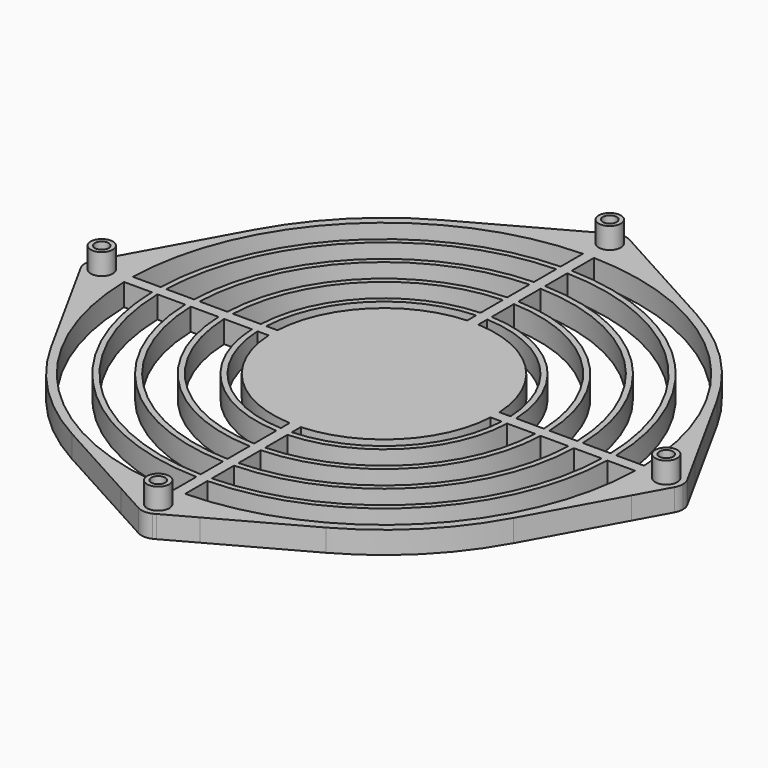
from build123d import *

# Parameters (mm, degrees)
F0_W     = 2
F0_H     = 2
F1_DEPTH = 4
F2_R     = 2
F3_DEPTH = 3.8
F5_D     = 2.5


with BuildPart() as f1:
    # F0 (on Top) → F1 (new body)
    with BuildSketch(Plane.XY):
        with BuildLine():
            Line((-27.9821371593, 1), (-28.9827534924, 1))
            ThreePointArc((-28.9827534924, 1), (-29, 0), (-28.9827534924, -1))
            Line((-28.9827534924, -1), (-27.9821371593, -1))
            ThreePointArc((-27.9821371593, -1), (-28, 0), (-27.9821371593, 1))
        make_face()
        with BuildLine():
            Line((45.9891291503, 1), (47.4894725176, 1))
            ThreePointArc((47.4894725176, 1), (45.876684121, 12.3117770471), (41.6092519685, 22.9111359522))
            ThreePointArc((41.6092519685, 22.9111359522), (33.5875721064, 33.5875721064), (22.9111359522, 41.6092519685))
            ThreePointArc((22.9111359522, 41.6092519685), (12.3117770471, 45.876684121), (1, 47.4894725176))
            Line((1, 47.4894725176), (1, 45.9891291503))
            ThreePointArc((1, 45.9891291503), (32.5269119346, 32.5269119346), (45.9891291503, 1))
        make_face()
        with BuildLine():
            Line((1, 19.9749843554), (1, 21.9772609758))
            ThreePointArc((1, 21.9772609758), (0, 22), (-1, 21.9772609758))
            Line((-1, 21.9772609758), (-1, 19.9749843554))
            ThreePointArc((-1, 19.9749843554), (0, 20), (1, 19.9749843554))
        make_face()
        with BuildLine():
            Line((-28.9827534924, 1), (-33.9852909359, 1))
            ThreePointArc((-33.9852909359, 1), (-34, 0), (-33.9852909359, -1))
            Line((-33.9852909359, -1), (-28.9827534924, -1))
            ThreePointArc((-28.9827534924, -1), (-29, 0), (-28.9827534924, 1))
        make_face()
        with BuildLine():
            Line((7.1083390687, -50.3002138731), (22.8899609216, -41.6209044713))
            ThreePointArc((22.8899609216, -41.6209044713), (12.3001049157, -45.8798149415), (1, -47.4894725176))
            ThreePointArc((1, -47.4894725176), (0, -47.5), (-1, -47.4894725176))
            ThreePointArc((-1, -47.4894725176), (-12.3117770471, -45.876684121), (-22.9111359522, -41.6092519685))
            Line((-22.9111359522, -41.6092519685), (-7.1339324414, -50.2965904204))
            ThreePointArc((-7.1339324414, -50.2965904204), (-5.0705561183, -50.5463100597), (-2.9986918997, -50.7114173228))
            ThreePointArc((-2.9986918997, -50.7114173228), (0, -47.8), (2.9986918997, -50.7114173228))
            ThreePointArc((2.9986918997, -50.7114173228), (5.0576961967, -50.5475984512), (7.1083390687, -50.3002138731))
        make_face()
        with BuildLine():
            Line((1, 1), (19.9749843554, 1))
            ThreePointArc((19.9749843554, 1), (14.1421356237, 14.1421356237), (1, 19.9749843554))
            Line((1, 19.9749843554), (1, 1))
        make_face()
        with BuildLine():
            Line((1, 22.9782505862), (1, 27.9821371593))
            ThreePointArc((1, 27.9821371593), (0, 28), (-1, 27.9821371593))
            Line((-1, 27.9821371593), (-1, 22.9782505862))
            ThreePointArc((-1, 22.9782505862), (0, 23), (1, 22.9782505862))
        make_face()
        with BuildLine():
            Line((1, 28.9827534924), (1, 33.9852909359))
            ThreePointArc((1, 33.9852909359), (0, 34), (-1, 33.9852909359))
            Line((-1, 33.9852909359), (-1, 28.9827534924))
            ThreePointArc((-1, 28.9827534924), (0, 29), (1, 28.9827534924))
        make_face()
        with BuildLine():
            ThreePointArc((28, 0), (27.9955339336, 0.5000797639), (27.9821371593, 1))
            Line((27.9821371593, 1), (22.9782505862, 1))
            ThreePointArc((22.9782505862, 1), (22.9945620037, 0.5001182453), (23, 0))
            ThreePointArc((23, 0), (22.9945620037, -0.5001182453), (22.9782505862, -1))
            Line((22.9782505862, -1), (27.9821371593, -1))
            ThreePointArc((27.9821371593, -1), (27.9955339336, -0.5000797639), (28, 0))
        make_face()
        with BuildLine():
            ThreePointArc((34, 0), (33.9963225351, 0.5000540862), (33.9852909359, 1))
            Line((33.9852909359, 1), (28.9827534924, 1))
            ThreePointArc((28.9827534924, 1), (28.9956880525, 0.500074355), (29, 0))
            ThreePointArc((29, 0), (28.9956880525, -0.500074355), (28.9827534924, -1))
            Line((28.9827534924, -1), (33.9852909359, -1))
            ThreePointArc((33.9852909359, -1), (33.9963225351, -0.5000540862), (34, 0))
        make_face()
        with BuildLine():
            ThreePointArc((41.6092519685, -22.9111359522), (45.876684121, -12.3117770471), (47.4894725176, -1))
            Line((47.4894725176, -1), (45.9891291503, -1))
            ThreePointArc((45.9891291503, -1), (32.5269119346, -32.5269119346), (1, -45.9891291503))
            Line((1, -45.9891291503), (1, -47.4894725176))
            ThreePointArc((1, -47.4894725176), (12.3001049157, -45.8798149415), (22.8899609216, -41.6209044713))
            ThreePointArc((22.8899609216, -41.6209044713), (33.5790258252, -33.5961162135), (41.6092519685, -22.9111359522))
        make_face()
        with BuildLine():
            ThreePointArc((40, 0), (39.9968743894, 0.5000390732), (39.9874980463, 1))
            Line((39.9874980463, 1), (34.9857113691, 1))
            ThreePointArc((34.9857113691, 1), (34.99642766, 0.5000510386), (35, 0))
            ThreePointArc((35, 0), (34.99642766, -0.5000510386), (34.9857113691, -1))
            Line((34.9857113691, -1), (39.9874980463, -1))
            ThreePointArc((39.9874980463, -1), (39.9968743894, -0.5000390732), (40, 0))
        make_face()
        with BuildLine():
            ThreePointArc((1.9996124617, 50.7606299213), (2.4992733128, 50.7384827612), (2.9986918997, 50.7114173228))
            ThreePointArc((2.9986918997, 50.7114173228), (2.9996729571, 50.7557038325), (3, 50.8))
            ThreePointArc((3, 50.8), (2.5827366628, 52.3262605711), (1.4470191128, 53.4279527559))
            ThreePointArc((1.4470191128, 53.4279527559), (0, 53.8), (-1.4470191128, 53.4279527559))
            ThreePointArc((-1.4470191128, 53.4279527559), (-2.6049909388, 52.2879590749), (-2.9986918997, 50.7114173228))
            ThreePointArc((-2.9986918997, 50.7114173228), (-2.4992733128, 50.7384827612), (-1.9996124617, 50.7606299213))
            ThreePointArc((-1.9996124617, 50.7606299213), (-0.019685993, 52.7999031131), (2, 50.8))
            ThreePointArc((2, 50.8), (1.9999031131, 50.780314007), (1.9996124617, 50.7606299213))
        make_face()
        with BuildLine():
            Line((1, 34.9857113691), (1, 39.9874980463))
            ThreePointArc((1, 39.9874980463), (0, 40), (-1, 39.9874980463))
            Line((-1, 39.9874980463), (-1, 34.9857113691))
            ThreePointArc((-1, 34.9857113691), (0, 35), (1, 34.9857113691))
        make_face()
        with BuildLine():
            ThreePointArc((50.7606299213, 1.9996124617), (50.7384827612, 2.4992733128), (50.7114173228, 2.9986918997))
            ThreePointArc((50.7114173228, 2.9986918997), (47.8, 0), (50.7114173228, -2.9986918997))
            ThreePointArc((50.7114173228, -2.9986918997), (50.7384827612, -2.4992733128), (50.7606299213, -1.9996124617))
            ThreePointArc((50.7606299213, -1.9996124617), (48.8, 0), (50.7606299213, 1.9996124617))
        make_face()
        with BuildLine():
            Line((1, 27.9821371593), (1, 28.9827534924))
            ThreePointArc((1, 28.9827534924), (0, 29), (-1, 28.9827534924))
            Line((-1, 28.9827534924), (-1, 27.9821371593))
            ThreePointArc((-1, 27.9821371593), (0, 28), (1, 27.9821371593))
        make_face()
        with BuildLine():
            ThreePointArc((-1.9996124617, -50.7606299213), (0, -50.8), (1.9996124617, -50.7606299213))
            ThreePointArc((1.9996124617, -50.7606299213), (0, -48.8), (-1.9996124617, -50.7606299213))
        make_face()
        with BuildLine():
            ThreePointArc((-45.9891291503, 1), (-32.5269119346, 32.5269119346), (-1, 45.9891291503))
            Line((-1, 45.9891291503), (-1, 47.4894725176))
            ThreePointArc((-1, 47.4894725176), (-12.3117770471, 45.876684121), (-22.9111359522, 41.6092519685))
            ThreePointArc((-22.9111359522, 41.6092519685), (-33.5875721064, 33.5875721064), (-41.6092519685, 22.9111359522))
            ThreePointArc((-41.6092519685, 22.9111359522), (-45.876684121, 12.3117770471), (-47.4894725176, 1))
            Line((-47.4894725176, 1), (-45.9891291503, 1))
        make_face()
        with BuildLine():
            ThreePointArc((2, -50.8), (1.9999031131, -50.780314007), (1.9996124617, -50.7606299213))
            ThreePointArc((1.9996124617, -50.7606299213), (0, -50.8), (-1.9996124617, -50.7606299213))
            ThreePointArc((-1.9996124617, -50.7606299213), (-0.019685993, -52.7999031131), (2, -50.8))
        make_face()
        with BuildLine():
            ThreePointArc((-47.4894725176, -1), (-47.5, 0), (-47.4894725176, 1))
            ThreePointArc((-47.4894725176, 1), (-45.876684121, 12.3117770471), (-41.6092519685, 22.9111359522))
            Line((-41.6092519685, 22.9111359522), (-50.2965904204, 7.1339324414))
            ThreePointArc((-50.2965904204, 7.1339324414), (-50.5463100597, 5.0705561183), (-50.7114173228, 2.9986918997))
            ThreePointArc((-50.7114173228, 2.9986918997), (-48.6475887903, 2.0897669689), (-47.8, 0))
            ThreePointArc((-47.8, 0), (-48.6475887903, -2.0897669689), (-50.7114173228, -2.9986918997))
            ThreePointArc((-50.7114173228, -2.9986918997), (-50.5463100597, -5.0705561183), (-50.2965904204, -7.1339324414))
            Line((-50.2965904204, -7.1339324414), (-41.6092519685, -22.9111359522))
            ThreePointArc((-41.6092519685, -22.9111359522), (-45.876684121, -12.3117770471), (-47.4894725176, -1))
        make_face()
        with BuildLine():
            ThreePointArc((3, -50.8), (2.9996729571, -50.7557038325), (2.9986918997, -50.7114173228))
            ThreePointArc((2.9986918997, -50.7114173228), (2.4992733128, -50.7384827612), (1.9996124617, -50.7606299213))
            ThreePointArc((1.9996124617, -50.7606299213), (1.9999031131, -50.780314007), (2, -50.8))
            ThreePointArc((2, -50.8), (-0.019685993, -52.7999031131), (-1.9996124617, -50.7606299213))
            ThreePointArc((-1.9996124617, -50.7606299213), (-2.4992733128, -50.7384827612), (-2.9986918997, -50.7114173228))
            ThreePointArc((-2.9986918997, -50.7114173228), (-2.6049909388, -52.2879590749), (-1.4470191128, -53.4279527559))
            ThreePointArc((-1.4470191128, -53.4279527559), (-0.1374850423, -53.796847988), (1.2003245561, -53.5494037463))
            Line((1.2003245561, -53.5494037463), (1.6790281614, -53.2861344359))
            ThreePointArc((1.6790281614, -53.2861344359), (2.649253148, -52.2076426244), (3, -50.8))
        make_face()
        with BuildLine():
            Line((-33.9852909359, 1), (-34.9857113691, 1))
            ThreePointArc((-34.9857113691, 1), (-35, 0), (-34.9857113691, -1))
            Line((-34.9857113691, -1), (-33.9852909359, -1))
            ThreePointArc((-33.9852909359, -1), (-34, 0), (-33.9852909359, 1))
        make_face()
        with BuildLine():
            ThreePointArc((-47.8, 0), (-48.6475887903, 2.0897669689), (-50.7114173228, 2.9986918997))
            ThreePointArc((-50.7114173228, 2.9986918997), (-50.7384827612, 2.4992733128), (-50.7606299213, 1.9996124617))
            ThreePointArc((-50.7606299213, 1.9996124617), (-49.3719348479, 1.4002249538), (-48.8, 0))
            ThreePointArc((-48.8, 0), (-49.3719348479, -1.4002249538), (-50.7606299213, -1.9996124617))
            ThreePointArc((-50.7606299213, -1.9996124617), (-50.7384827612, -2.4992733128), (-50.7114173228, -2.9986918997))
            ThreePointArc((-50.7114173228, -2.9986918997), (-48.6475887903, -2.0897669689), (-47.8, 0))
        make_face()
        with BuildLine():
            Line((21.9772609758, 1), (22.9782505862, 1))
            ThreePointArc((22.9782505862, 1), (16.2634559673, 16.2634559673), (1, 22.9782505862))
            Line((1, 22.9782505862), (1, 21.9772609758))
            ThreePointArc((1, 21.9772609758), (15.5563491861, 15.5563491861), (21.9772609758, 1))
        make_face()
        with BuildLine():
            Line((1.6790281614, -53.2861344359), (7.1083390687, -50.3002138731))
            ThreePointArc((7.1083390687, -50.3002138731), (5.0576961967, -50.5475984512), (2.9986918997, -50.7114173228))
            ThreePointArc((2.9986918997, -50.7114173228), (2.9996729571, -50.7557038325), (3, -50.8))
            ThreePointArc((3, -50.8), (2.649253148, -52.2076426244), (1.6790281614, -53.2861344359))
        make_face()
        with BuildLine():
            ThreePointArc((-50.7114173228, 2.9986918997), (-50.5463100597, 5.0705561183), (-50.2965904204, 7.1339324414))
            Line((-50.2965904204, 7.1339324414), (-53.4279527559, 1.4470191128))
            ThreePointArc((-53.4279527559, 1.4470191128), (-52.2879590749, 2.6049909388), (-50.7114173228, 2.9986918997))
        make_face()
        with BuildLine():
            ThreePointArc((20, 0), (19.9937451108, 0.5001564212), (19.9749843554, 1))
            Line((19.9749843554, 1), (1, 1))
            Line((1, 1), (1, -1))
            Line((1, -1), (19.9749843554, -1))
            ThreePointArc((19.9749843554, -1), (19.9937451108, -0.5001564212), (20, 0))
        make_face()
        with BuildLine():
            Line((1, 21.9772609758), (1, 22.9782505862))
            ThreePointArc((1, 22.9782505862), (0, 23), (-1, 22.9782505862))
            Line((-1, 22.9782505862), (-1, 21.9772609758))
            ThreePointArc((-1, 21.9772609758), (0, 22), (1, 21.9772609758))
        make_face()
        with BuildLine():
            ThreePointArc((-50.7606299213, -1.9996124617), (-50.8, 0), (-50.7606299213, 1.9996124617))
            ThreePointArc((-50.7606299213, 1.9996124617), (-52.8, 0), (-50.7606299213, -1.9996124617))
        make_face()
        with BuildLine():
            ThreePointArc((2.9986918997, 50.7114173228), (5.0705561183, 50.5463100597), (7.1339324414, 50.2965904204))
            Line((7.1339324414, 50.2965904204), (1.4470191128, 53.4279527559))
            ThreePointArc((1.4470191128, 53.4279527559), (2.5827366628, 52.3262605711), (3, 50.8))
            ThreePointArc((3, 50.8), (2.9996729571, 50.7557038325), (2.9986918997, 50.7114173228))
        make_face()
        with BuildLine():
            Line((-34.9857113691, 1), (-39.9874980463, 1))
            ThreePointArc((-39.9874980463, 1), (-40, 0), (-39.9874980463, -1))
            Line((-39.9874980463, -1), (-34.9857113691, -1))
            ThreePointArc((-34.9857113691, -1), (-35, 0), (-34.9857113691, 1))
        make_face()
        with BuildLine():
            ThreePointArc((-2.9986918997, 50.7114173228), (0, 47.8), (2.9986918997, 50.7114173228))
            ThreePointArc((2.9986918997, 50.7114173228), (2.4992733128, 50.7384827612), (1.9996124617, 50.7606299213))
            ThreePointArc((1.9996124617, 50.7606299213), (0, 48.8), (-1.9996124617, 50.7606299213))
            ThreePointArc((-1.9996124617, 50.7606299213), (-2.4992733128, 50.7384827612), (-2.9986918997, 50.7114173228))
        make_face()
        with BuildLine():
            Line((-1, -47.4894725176), (-1, -45.9891291503))
            ThreePointArc((-1, -45.9891291503), (-32.5269119346, -32.5269119346), (-45.9891291503, -1))
            Line((-45.9891291503, -1), (-47.4894725176, -1))
            ThreePointArc((-47.4894725176, -1), (-45.876684121, -12.3117770471), (-41.6092519685, -22.9111359522))
            ThreePointArc((-41.6092519685, -22.9111359522), (-33.5875721064, -33.5875721064), (-22.9111359522, -41.6092519685))
            ThreePointArc((-22.9111359522, -41.6092519685), (-12.3117770471, -45.876684121), (-1, -47.4894725176))
        make_face()
        with BuildLine():
            ThreePointArc((50.8, 0), (50.7901565266, 1), (50.7606299213, 1.9996124617))
            ThreePointArc((50.7606299213, 1.9996124617), (48.8, 0), (50.7606299213, -1.9996124617))
            ThreePointArc((50.7606299213, -1.9996124617), (50.7901565266, -1), (50.8, 0))
        make_face()
        with BuildLine():
            Line((53.4279527559, 1.4470191128), (50.2965904204, 7.1339324414))
            ThreePointArc((50.2965904204, 7.1339324414), (50.5463100597, 5.0705561183), (50.7114173228, 2.9986918997))
            ThreePointArc((50.7114173228, 2.9986918997), (52.2879590749, 2.6049909388), (53.4279527559, 1.4470191128))
        make_face()
        with BuildLine():
            ThreePointArc((47.4894725176, 1), (47.4973680565, 0.5000277062), (47.5, 0))
            ThreePointArc((47.5, 0), (47.4973680565, -0.5000277062), (47.4894725176, -1))
            ThreePointArc((47.4894725176, -1), (45.876684121, -12.3117770471), (41.6092519685, -22.9111359522))
            Line((41.6092519685, -22.9111359522), (50.2965904204, -7.1339324414))
            ThreePointArc((50.2965904204, -7.1339324414), (50.5463100597, -5.0705561183), (50.7114173228, -2.9986918997))
            ThreePointArc((50.7114173228, -2.9986918997), (47.8, 0), (50.7114173228, 2.9986918997))
            ThreePointArc((50.7114173228, 2.9986918997), (50.5463100597, 5.0705561183), (50.2965904204, 7.1339324414))
            Line((50.2965904204, 7.1339324414), (41.6092519685, 22.9111359522))
            ThreePointArc((41.6092519685, 22.9111359522), (45.876684121, 12.3117770471), (47.4894725176, 1))
        make_face()
        with BuildLine():
            Line((1, 39.9874980463), (1, 40.9878030638))
            ThreePointArc((1, 40.9878030638), (0, 41), (-1, 40.9878030638))
            Line((-1, 40.9878030638), (-1, 39.9874980463))
            ThreePointArc((-1, 39.9874980463), (0, 40), (1, 39.9874980463))
        make_face()
        with BuildLine():
            ThreePointArc((-1.9996124617, 50.7606299213), (0, 48.8), (1.9996124617, 50.7606299213))
            ThreePointArc((1.9996124617, 50.7606299213), (0, 50.8), (-1.9996124617, 50.7606299213))
        make_face()
        with BuildLine():
            Line((-40.9878030638, 1), (-45.9891291503, 1))
            ThreePointArc((-45.9891291503, 1), (-46, 0), (-45.9891291503, -1))
            Line((-45.9891291503, -1), (-40.9878030638, -1))
            ThreePointArc((-40.9878030638, -1), (-41, 0), (-40.9878030638, 1))
        make_face()
        with BuildLine():
            Line((-22.9782505862, 1), (-27.9821371593, 1))
            ThreePointArc((-27.9821371593, 1), (-28, 0), (-27.9821371593, -1))
            Line((-27.9821371593, -1), (-22.9782505862, -1))
            ThreePointArc((-22.9782505862, -1), (-23, 0), (-22.9782505862, 1))
        make_face()
        with BuildLine():
            ThreePointArc((-1, -45.9891291503), (0, -46), (1, -45.9891291503))
            Line((1, -45.9891291503), (1, -40.9878030638))
            ThreePointArc((1, -40.9878030638), (0, -41), (-1, -40.9878030638))
            Line((-1, -40.9878030638), (-1, -45.9891291503))
        make_face()
        with BuildLine():
            ThreePointArc((-50.7606299213, 1.9996124617), (-50.7384827612, 2.4992733128), (-50.7114173228, 2.9986918997))
            ThreePointArc((-50.7114173228, 2.9986918997), (-52.2879590749, 2.6049909388), (-53.4279527559, 1.4470191128))
            ThreePointArc((-53.4279527559, 1.4470191128), (-53.8, 0), (-53.4279527559, -1.4470191128))
            ThreePointArc((-53.4279527559, -1.4470191128), (-52.2879590749, -2.6049909388), (-50.7114173228, -2.9986918997))
            ThreePointArc((-50.7114173228, -2.9986918997), (-50.7384827612, -2.4992733128), (-50.7606299213, -1.9996124617))
            ThreePointArc((-50.7606299213, -1.9996124617), (-52.8, 0), (-50.7606299213, 1.9996124617))
        make_face()
        with BuildLine():
            ThreePointArc((1, 47.4894725176), (12.3117770471, 45.876684121), (22.9111359522, 41.6092519685))
            Line((22.9111359522, 41.6092519685), (7.1339324414, 50.2965904204))
            ThreePointArc((7.1339324414, 50.2965904204), (5.0705561183, 50.5463100597), (2.9986918997, 50.7114173228))
            ThreePointArc((2.9986918997, 50.7114173228), (0, 47.8), (-2.9986918997, 50.7114173228))
            ThreePointArc((-2.9986918997, 50.7114173228), (-5.0705561183, 50.5463100597), (-7.1339324414, 50.2965904204))
            Line((-7.1339324414, 50.2965904204), (-22.9111359522, 41.6092519685))
            ThreePointArc((-22.9111359522, 41.6092519685), (-12.3117770471, 45.876684121), (-1, 47.4894725176))
            ThreePointArc((-1, 47.4894725176), (0, 47.5), (1, 47.4894725176))
        make_face()
        with BuildLine():
            Line((1, 40.9878030638), (1, 45.9891291503))
            ThreePointArc((1, 45.9891291503), (0, 46), (-1, 45.9891291503))
            Line((-1, 45.9891291503), (-1, 40.9878030638))
            ThreePointArc((-1, 40.9878030638), (0, 41), (1, 40.9878030638))
        make_face()
        with BuildLine():
            ThreePointArc((35, 0), (34.99642766, 0.5000510386), (34.9857113691, 1))
            Line((34.9857113691, 1), (33.9852909359, 1))
            ThreePointArc((33.9852909359, 1), (33.9963225351, 0.5000540862), (34, 0))
            ThreePointArc((34, 0), (33.9963225351, -0.5000540862), (33.9852909359, -1))
            Line((33.9852909359, -1), (34.9857113691, -1))
            ThreePointArc((34.9857113691, -1), (34.99642766, -0.5000510386), (35, 0))
        make_face()
        with BuildLine():
            Line((33.9852909359, 1), (34.9857113691, 1))
            ThreePointArc((34.9857113691, 1), (24.7487373415, 24.7487373415), (1, 34.9857113691))
            Line((1, 34.9857113691), (1, 33.9852909359))
            ThreePointArc((1, 33.9852909359), (24.0416305603, 24.0416305603), (33.9852909359, 1))
        make_face()
        with BuildLine():
            Line((1, 1), (1, 19.9749843554))
            ThreePointArc((1, 19.9749843554), (0, 20), (-1, 19.9749843554))
            Line((-1, 19.9749843554), (-1, 1))
            Line((-1, 1), (1, 1))
        make_face()
        with BuildLine():
            Line((-39.9874980463, 1), (-40.9878030638, 1))
            ThreePointArc((-40.9878030638, 1), (-41, 0), (-40.9878030638, -1))
            Line((-40.9878030638, -1), (-39.9874980463, -1))
            ThreePointArc((-39.9874980463, -1), (-40, 0), (-39.9874980463, 1))
        make_face()
        with BuildLine():
            ThreePointArc((41, 0), (40.9969506526, 0.5000371899), (40.9878030638, 1))
            Line((40.9878030638, 1), (39.9874980463, 1))
            ThreePointArc((39.9874980463, 1), (39.9968743894, 0.5000390732), (40, 0))
            ThreePointArc((40, 0), (39.9968743894, -0.5000390732), (39.9874980463, -1))
            Line((39.9874980463, -1), (40.9878030638, -1))
            ThreePointArc((40.9878030638, -1), (40.9969506526, -0.5000371899), (41, 0))
        make_face()
        with BuildLine():
            Line((39.9874980463, 1), (40.9878030638, 1))
            ThreePointArc((40.9878030638, 1), (28.9913780286, 28.9913780286), (1, 40.9878030638))
            Line((1, 40.9878030638), (1, 39.9874980463))
            ThreePointArc((1, 39.9874980463), (28.2842712475, 28.2842712475), (39.9874980463, 1))
        make_face()
        with BuildLine():
            ThreePointArc((1.9996124617, -50.7606299213), (2.4992733128, -50.7384827612), (2.9986918997, -50.7114173228))
            ThreePointArc((2.9986918997, -50.7114173228), (0, -47.8), (-2.9986918997, -50.7114173228))
            ThreePointArc((-2.9986918997, -50.7114173228), (-2.4992733128, -50.7384827612), (-1.9996124617, -50.7606299213))
            ThreePointArc((-1.9996124617, -50.7606299213), (0, -48.8), (1.9996124617, -50.7606299213))
        make_face()
        with BuildLine():
            ThreePointArc((1, -40.9878030638), (28.9913780286, -28.9913780286), (40.9878030638, -1))
            Line((40.9878030638, -1), (39.9874980463, -1))
            ThreePointArc((39.9874980463, -1), (28.2842712475, -28.2842712475), (1, -39.9874980463))
            Line((1, -39.9874980463), (1, -40.9878030638))
        make_face()
        with BuildLine():
            ThreePointArc((-1, -39.9874980463), (0, -40), (1, -39.9874980463))
            Line((1, -39.9874980463), (1, -34.9857113691))
            ThreePointArc((1, -34.9857113691), (0, -35), (-1, -34.9857113691))
            Line((-1, -34.9857113691), (-1, -39.9874980463))
        make_face()
        with BuildLine():
            ThreePointArc((46, 0), (45.9972822073, 0.500029543), (45.9891291503, 1))
            Line((45.9891291503, 1), (40.9878030638, 1))
            ThreePointArc((40.9878030638, 1), (40.9969506526, 0.5000371899), (41, 0))
            ThreePointArc((41, 0), (40.9969506526, -0.5000371899), (40.9878030638, -1))
            Line((40.9878030638, -1), (45.9891291503, -1))
            ThreePointArc((45.9891291503, -1), (45.9972822073, -0.500029543), (46, 0))
        make_face()
        with BuildLine():
            Line((-1, 27.9821371593), (-1, 28.9827534924))
            ThreePointArc((-1, 28.9827534924), (-20.5060966544, 20.5060966544), (-28.9827534924, 1))
            Line((-28.9827534924, 1), (-27.9821371593, 1))
            ThreePointArc((-27.9821371593, 1), (-19.7989898732, 19.7989898732), (-1, 27.9821371593))
        make_face()
        with BuildLine():
            Line((27.9821371593, 1), (28.9827534924, 1))
            ThreePointArc((28.9827534924, 1), (20.5060966544, 20.5060966544), (1, 28.9827534924))
            Line((1, 28.9827534924), (1, 27.9821371593))
            ThreePointArc((1, 27.9821371593), (19.7989898732, 19.7989898732), (27.9821371593, 1))
        make_face()
        with BuildLine():
            ThreePointArc((29, 0), (28.9956880525, 0.500074355), (28.9827534924, 1))
            Line((28.9827534924, 1), (27.9821371593, 1))
            ThreePointArc((27.9821371593, 1), (27.9955339336, 0.5000797639), (28, 0))
            ThreePointArc((28, 0), (27.9955339336, -0.5000797639), (27.9821371593, -1))
            Line((27.9821371593, -1), (28.9827534924, -1))
            ThreePointArc((28.9827534924, -1), (28.9956880525, -0.500074355), (29, 0))
        make_face()
        with BuildLine():
            Line((-1, 33.9852909359), (-1, 34.9857113691))
            ThreePointArc((-1, 34.9857113691), (-24.7487373415, 24.7487373415), (-34.9857113691, 1))
            Line((-34.9857113691, 1), (-33.9852909359, 1))
            ThreePointArc((-33.9852909359, 1), (-24.0416305603, 24.0416305603), (-1, 33.9852909359))
        make_face()
        with BuildLine():
            Line((-1, 39.9874980463), (-1, 40.9878030638))
            ThreePointArc((-1, 40.9878030638), (-28.9913780286, 28.9913780286), (-40.9878030638, 1))
            Line((-40.9878030638, 1), (-39.9874980463, 1))
            ThreePointArc((-39.9874980463, 1), (-28.2842712475, 28.2842712475), (-1, 39.9874980463))
        make_face()
        with BuildLine():
            Line((47.4894725176, -1), (47.4894725176, 1))
            Line((47.4894725176, 1), (45.9891291503, 1))
            ThreePointArc((45.9891291503, 1), (45.9972822073, 0.500029543), (46, 0))
            ThreePointArc((46, 0), (45.9972822073, -0.500029543), (45.9891291503, -1))
            Line((45.9891291503, -1), (47.4894725176, -1))
        make_face()
        with BuildLine():
            ThreePointArc((-1, -22.9782505862), (0, -23), (1, -22.9782505862))
            Line((1, -22.9782505862), (1, -21.9772609758))
            ThreePointArc((1, -21.9772609758), (0, -22), (-1, -21.9772609758))
            Line((-1, -21.9772609758), (-1, -22.9782505862))
        make_face()
        with BuildLine():
            Line((-19.9749843554, 1), (-21.9772609758, 1))
            ThreePointArc((-21.9772609758, 1), (-22, 0), (-21.9772609758, -1))
            Line((-21.9772609758, -1), (-19.9749843554, -1))
            ThreePointArc((-19.9749843554, -1), (-20, 0), (-19.9749843554, 1))
        make_face()
        with BuildLine():
            ThreePointArc((-1, -33.9852909359), (0, -34), (1, -33.9852909359))
            Line((1, -33.9852909359), (1, -28.9827534924))
            ThreePointArc((1, -28.9827534924), (0, -29), (-1, -28.9827534924))
            Line((-1, -28.9827534924), (-1, -33.9852909359))
        make_face()
        with BuildLine():
            Line((-1, 1), (-1, 19.9749843554))
            ThreePointArc((-1, 19.9749843554), (-14.1421356237, 14.1421356237), (-19.9749843554, 1))
            Line((-19.9749843554, 1), (-1, 1))
        make_face()
        with BuildLine():
            ThreePointArc((-45.9891291503, -1), (-46, 0), (-45.9891291503, 1))
            Line((-45.9891291503, 1), (-47.4894725176, 1))
            Line((-47.4894725176, 1), (-47.4894725176, -1))
            Line((-47.4894725176, -1), (-45.9891291503, -1))
        make_face()
        with BuildLine():
            ThreePointArc((-1, 45.9891291503), (0, 46), (1, 45.9891291503))
            Line((1, 45.9891291503), (1, 47.4894725176))
            Line((1, 47.4894725176), (-1, 47.4894725176))
            Line((-1, 47.4894725176), (-1, 45.9891291503))
        make_face()
        with BuildLine():
            Line((-53.4279527559, -1.4470191128), (-50.2965904204, -7.1339324414))
            ThreePointArc((-50.2965904204, -7.1339324414), (-50.5463100597, -5.0705561183), (-50.7114173228, -2.9986918997))
            ThreePointArc((-50.7114173228, -2.9986918997), (-52.2879590749, -2.6049909388), (-53.4279527559, -1.4470191128))
        make_face()
        with BuildLine():
            ThreePointArc((1, -19.9749843554), (14.1421356237, -14.1421356237), (19.9749843554, -1))
            Line((19.9749843554, -1), (1, -1))
            Line((1, -1), (1, -19.9749843554))
        make_face()
        with BuildLine():
            ThreePointArc((-1.4470191128, -53.4279527559), (-2.6049909388, -52.2879590749), (-2.9986918997, -50.7114173228))
            ThreePointArc((-2.9986918997, -50.7114173228), (-5.0705561183, -50.5463100597), (-7.1339324414, -50.2965904204))
            Line((-7.1339324414, -50.2965904204), (-1.4470191128, -53.4279527559))
        make_face()
        with BuildLine():
            Line((1, -47.4894725176), (1, -45.9891291503))
            ThreePointArc((1, -45.9891291503), (0, -46), (-1, -45.9891291503))
            Line((-1, -45.9891291503), (-1, -47.4894725176))
            Line((-1, -47.4894725176), (1, -47.4894725176))
        make_face()
        with BuildLine():
            ThreePointArc((53.4279527559, 1.4470191128), (52.2879590749, 2.6049909388), (50.7114173228, 2.9986918997))
            ThreePointArc((50.7114173228, 2.9986918997), (50.7384827612, 2.4992733128), (50.7606299213, 1.9996124617))
            ThreePointArc((50.7606299213, 1.9996124617), (52.2002249538, 1.4280651521), (52.8, 0))
            ThreePointArc((52.8, 0), (52.2002249538, -1.4280651521), (50.7606299213, -1.9996124617))
            ThreePointArc((50.7606299213, -1.9996124617), (50.7384827612, -2.4992733128), (50.7114173228, -2.9986918997))
            ThreePointArc((50.7114173228, -2.9986918997), (52.2879590749, -2.6049909388), (53.4279527559, -1.4470191128))
            ThreePointArc((53.4279527559, -1.4470191128), (53.7054998079, -0.7470414086), (53.8, 0))
            ThreePointArc((53.8, 0), (53.7054998079, 0.7470414086), (53.4279527559, 1.4470191128))
        make_face()
        with BuildLine():
            ThreePointArc((22, 0), (21.9943145093, 0.5001292491), (21.9772609758, 1))
            Line((21.9772609758, 1), (19.9749843554, 1))
            ThreePointArc((19.9749843554, 1), (19.9937451108, 0.5001564212), (20, 0))
            ThreePointArc((20, 0), (19.9937451108, -0.5001564212), (19.9749843554, -1))
            Line((19.9749843554, -1), (21.9772609758, -1))
            ThreePointArc((21.9772609758, -1), (21.9943145093, -0.5001292491), (22, 0))
        make_face()
        with BuildLine():
            Line((-1, -1), (-1, 1))
            Line((-1, 1), (-19.9749843554, 1))
            ThreePointArc((-19.9749843554, 1), (-20, 0), (-19.9749843554, -1))
            Line((-19.9749843554, -1), (-1, -1))
        make_face()
        with BuildLine():
            Line((-1, 21.9772609758), (-1, 22.9782505862))
            ThreePointArc((-1, 22.9782505862), (-16.2634559673, 16.2634559673), (-22.9782505862, 1))
            Line((-22.9782505862, 1), (-21.9772609758, 1))
            ThreePointArc((-21.9772609758, 1), (-15.5563491861, 15.5563491861), (-1, 21.9772609758))
        make_face()
        with BuildLine():
            ThreePointArc((1, -34.9857113691), (24.7487373415, -24.7487373415), (34.9857113691, -1))
            Line((34.9857113691, -1), (33.9852909359, -1))
            ThreePointArc((33.9852909359, -1), (24.0416305603, -24.0416305603), (1, -33.9852909359))
            Line((1, -33.9852909359), (1, -34.9857113691))
        make_face()
        with BuildLine():
            ThreePointArc((-40.9878030638, -1), (-28.9913780286, -28.9913780286), (-1, -40.9878030638))
            Line((-1, -40.9878030638), (-1, -39.9874980463))
            ThreePointArc((-1, -39.9874980463), (-28.2842712475, -28.2842712475), (-39.9874980463, -1))
            Line((-39.9874980463, -1), (-40.9878030638, -1))
        make_face()
        with BuildLine():
            Line((-21.9772609758, 1), (-22.9782505862, 1))
            ThreePointArc((-22.9782505862, 1), (-23, 0), (-22.9782505862, -1))
            Line((-22.9782505862, -1), (-21.9772609758, -1))
            ThreePointArc((-21.9772609758, -1), (-22, 0), (-21.9772609758, 1))
        make_face()
        with BuildLine():
            ThreePointArc((-1.9996124617, 50.7606299213), (0, 50.8), (1.9996124617, 50.7606299213))
            ThreePointArc((1.9996124617, 50.7606299213), (1.9999031131, 50.780314007), (2, 50.8))
            ThreePointArc((2, 50.8), (-0.019685993, 52.7999031131), (-1.9996124617, 50.7606299213))
        make_face()
        with BuildLine():
            ThreePointArc((-48.8, 0), (-49.3719348479, 1.4002249538), (-50.7606299213, 1.9996124617))
            ThreePointArc((-50.7606299213, 1.9996124617), (-50.8, 0), (-50.7606299213, -1.9996124617))
            ThreePointArc((-50.7606299213, -1.9996124617), (-49.3719348479, -1.4002249538), (-48.8, 0))
        make_face()
        with BuildLine():
            ThreePointArc((-7.1339324414, 50.2965904204), (-5.0705561183, 50.5463100597), (-2.9986918997, 50.7114173228))
            ThreePointArc((-2.9986918997, 50.7114173228), (-2.6049909388, 52.2879590749), (-1.4470191128, 53.4279527559))
            Line((-1.4470191128, 53.4279527559), (-7.1339324414, 50.2965904204))
        make_face()
        with BuildLine():
            ThreePointArc((-1, -40.9878030638), (0, -41), (1, -40.9878030638))
            Line((1, -40.9878030638), (1, -39.9874980463))
            ThreePointArc((1, -39.9874980463), (0, -40), (-1, -39.9874980463))
            Line((-1, -39.9874980463), (-1, -40.9878030638))
        make_face()
        with BuildLine():
            ThreePointArc((-1, -21.9772609758), (0, -22), (1, -21.9772609758))
            Line((1, -21.9772609758), (1, -19.9749843554))
            ThreePointArc((1, -19.9749843554), (0, -20), (-1, -19.9749843554))
            Line((-1, -19.9749843554), (-1, -21.9772609758))
        make_face()
        with BuildLine():
            ThreePointArc((-22.9782505862, -1), (-16.2634559673, -16.2634559673), (-1, -22.9782505862))
            Line((-1, -22.9782505862), (-1, -21.9772609758))
            ThreePointArc((-1, -21.9772609758), (-15.5563491861, -15.5563491861), (-21.9772609758, -1))
            Line((-21.9772609758, -1), (-22.9782505862, -1))
        make_face()
        with BuildLine():
            ThreePointArc((-1, -34.9857113691), (0, -35), (1, -34.9857113691))
            Line((1, -34.9857113691), (1, -33.9852909359))
            ThreePointArc((1, -33.9852909359), (0, -34), (-1, -33.9852909359))
            Line((-1, -33.9852909359), (-1, -34.9857113691))
        make_face()
        with BuildLine():
            ThreePointArc((-1, -19.9749843554), (0, -20), (1, -19.9749843554))
            Line((1, -19.9749843554), (1, -1))
            Line((1, -1), (-1, -1))
            Line((-1, -1), (-1, -19.9749843554))
        make_face()
        with BuildLine():
            ThreePointArc((23, 0), (22.9945620037, 0.5001182453), (22.9782505862, 1))
            Line((22.9782505862, 1), (21.9772609758, 1))
            ThreePointArc((21.9772609758, 1), (21.9943145093, 0.5001292491), (22, 0))
            ThreePointArc((22, 0), (21.9943145093, -0.5001292491), (21.9772609758, -1))
            Line((21.9772609758, -1), (22.9782505862, -1))
            ThreePointArc((22.9782505862, -1), (22.9945620037, -0.5001182453), (23, 0))
        make_face()
        with BuildLine():
            ThreePointArc((1, -28.9827534924), (20.5060966544, -20.5060966544), (28.9827534924, -1))
            Line((28.9827534924, -1), (27.9821371593, -1))
            ThreePointArc((27.9821371593, -1), (19.7989898732, -19.7989898732), (1, -27.9821371593))
            Line((1, -27.9821371593), (1, -28.9827534924))
        make_face()
        with BuildLine():
            Line((1, 33.9852909359), (1, 34.9857113691))
            ThreePointArc((1, 34.9857113691), (0, 35), (-1, 34.9857113691))
            Line((-1, 34.9857113691), (-1, 33.9852909359))
            ThreePointArc((-1, 33.9852909359), (0, 34), (1, 33.9852909359))
        make_face()
        with BuildLine():
            ThreePointArc((50.7114173228, -2.9986918997), (50.5463100597, -5.0705561183), (50.2965904204, -7.1339324414))
            Line((50.2965904204, -7.1339324414), (53.4279527559, -1.4470191128))
            ThreePointArc((53.4279527559, -1.4470191128), (52.2879590749, -2.6049909388), (50.7114173228, -2.9986918997))
        make_face()
        with BuildLine():
            ThreePointArc((-1, -28.9827534924), (0, -29), (1, -28.9827534924))
            Line((1, -28.9827534924), (1, -27.9821371593))
            ThreePointArc((1, -27.9821371593), (0, -28), (-1, -27.9821371593))
            Line((-1, -27.9821371593), (-1, -28.9827534924))
        make_face()
        with BuildLine():
            ThreePointArc((-1, -27.9821371593), (0, -28), (1, -27.9821371593))
            Line((1, -27.9821371593), (1, -22.9782505862))
            ThreePointArc((1, -22.9782505862), (0, -23), (-1, -22.9782505862))
            Line((-1, -22.9782505862), (-1, -27.9821371593))
        make_face()
        with BuildLine():
            ThreePointArc((1.2003245561, -53.5494037463), (1.4456817424, -53.4286887034), (1.6790281614, -53.2861344359))
            Line((1.6790281614, -53.2861344359), (1.2003245561, -53.5494037463))
        make_face()
        with BuildLine():
            ThreePointArc((-28.9827534924, -1), (-20.5060966544, -20.5060966544), (-1, -28.9827534924))
            Line((-1, -28.9827534924), (-1, -27.9821371593))
            ThreePointArc((-1, -27.9821371593), (-19.7989898732, -19.7989898732), (-27.9821371593, -1))
            Line((-27.9821371593, -1), (-28.9827534924, -1))
        make_face()
        with BuildLine():
            ThreePointArc((-34.9857113691, -1), (-24.7487373415, -24.7487373415), (-1, -34.9857113691))
            Line((-1, -34.9857113691), (-1, -33.9852909359))
            ThreePointArc((-1, -33.9852909359), (-24.0416305603, -24.0416305603), (-33.9852909359, -1))
            Line((-33.9852909359, -1), (-34.9857113691, -1))
        make_face()
        with BuildLine():
            ThreePointArc((1, -22.9782505862), (16.2634559673, -16.2634559673), (22.9782505862, -1))
            Line((22.9782505862, -1), (21.9772609758, -1))
            ThreePointArc((21.9772609758, -1), (15.5563491861, -15.5563491861), (1, -21.9772609758))
            Line((1, -21.9772609758), (1, -22.9782505862))
        make_face()
        with BuildLine():
            ThreePointArc((-19.9749843554, -1), (-14.1421356237, -14.1421356237), (-1, -19.9749843554))
            Line((-1, -19.9749843554), (-1, -1))
            Line((-1, -1), (-19.9749843554, -1))
        make_face()
        with BuildLine():
            ThreePointArc((52.8, 0), (52.2002249538, 1.4280651521), (50.7606299213, 1.9996124617))
            ThreePointArc((50.7606299213, 1.9996124617), (50.7901565266, 1), (50.8, 0))
            ThreePointArc((50.8, 0), (50.7901565266, -1), (50.7606299213, -1.9996124617))
            ThreePointArc((50.7606299213, -1.9996124617), (52.2002249538, -1.4280651521), (52.8, 0))
        make_face()
        Rectangle(F0_W, F0_H)
        with BuildLine():
            ThreePointArc((47.4894725176, -1), (47.4973680565, -0.5000277062), (47.5, 0))
            ThreePointArc((47.5, 0), (47.4973680565, 0.5000277062), (47.4894725176, 1))
            Line((47.4894725176, 1), (47.4894725176, -1))
        make_face()
        with BuildLine():
            ThreePointArc((-1, -47.4894725176), (0, -47.5), (1, -47.4894725176))
            Line((1, -47.4894725176), (-1, -47.4894725176))
        make_face()
        with BuildLine():
            Line((-1, 47.4894725176), (1, 47.4894725176))
            ThreePointArc((1, 47.4894725176), (0, 47.5), (-1, 47.4894725176))
        make_face()
        with BuildLine():
            Line((-47.4894725176, -1), (-47.4894725176, 1))
            ThreePointArc((-47.4894725176, 1), (-47.5, 0), (-47.4894725176, -1))
        make_face()
    extrude(amount=F1_DEPTH)

    # F2 (on face) → F3 (join)
    with BuildSketch(Plane.XY.offset(4)):
        with Locations((0, 50.8)):
            Circle(F2_R)
        with Locations((50.8, 0)):
            Circle(F2_R)
        with Locations((0, -50.8)):
            Circle(F2_R)
        with Locations((-50.8, 0)):
            Circle(F2_R)
    extrude(amount=F3_DEPTH)

    # F5 (through all)
    with Locations(Plane.XY.offset(7.8)):
        with Locations((-50.8, 0), (0, -50.8), (50.8, 0), (0, 50.8)):
            Hole(F5_D / 2)


solid = f1.part
